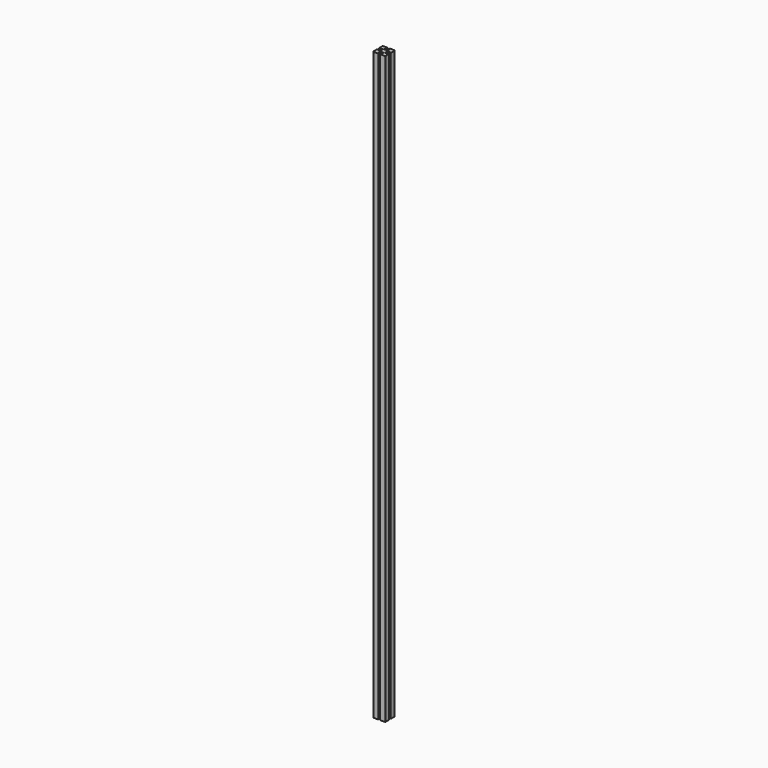
from build123d import *

# Parameters (mm, degrees)
F1_DEPTH = 1910
F2_R     = 2


with BuildPart() as f1:
    # F0 (on Top) → F1 (new body)
    with BuildSketch(Plane.XY):
        Polygon((20, 3), (20, 20), (3, 20), (3, 14), (6, 14), (6, 8), (-6, 8), (-6, 14), (-3, 14), (-3, 20), (-20, 20), (-20, 3), (-14, 3), (-14, 6), (-8, 6), (-8, -6), (-14, -6), (-14, -3), (-20, -3), (-20, -20), (-3.00035, -20), (-2.908665, -14), (-6, -14), (-6, -8), (6, -8), (6, -14), (3.092036, -14), (3.00035, -20), (20, -20), (20, -3), (14, -3), (14, -6), (8, -6), (8, 6), (14, 6), (14, 3), align=None)
    extrude(amount=F1_DEPTH)

    # F2
    f2_edges = [f1.edges().sort_by_distance(p)[0] for p in [
        (20, 3, 955),
        (20, 20, 955),
        (20, -20, 955),
        (20, -3, 955),
        (-3.00035, -20, 955),
        (-3, 20, 955),
        (3, 20, 955),
        (-20, 20, 955),
        (-20, -3, 955),
        (-20, 3, 955),
        (-20, -20, 955),
    ]]
    fillet(f2_edges, radius=F2_R)


solid = f1.part
